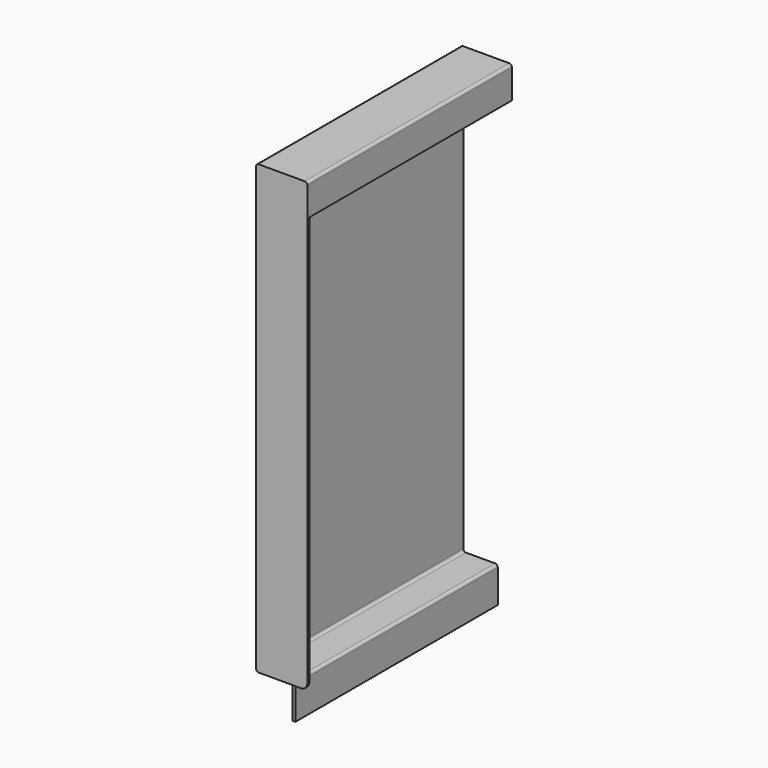
from build123d import *

# Parameters (mm, degrees)
F4_DEPTH = 2
F6_R     = 2


with BuildPart() as f2:
    # F2: sweep along a path in F1
    with BuildLine(Plane.XY) as f2_path:
        Line((0, 0), (0, 198))
    # F0 (on Front) → F2 (sweep)
    with BuildSketch(Plane.XZ):
        Polygon((40, 0), (0, 0), (0, -350), (27, -350), (27, -376), (29, -376), (29, -348), (2, -348), (2, -2), (38, -2), (38, -25), (40, -25), align=None)
    sweep(path=f2_path.line)


with BuildPart() as f4:
    # F3 (on face) → F4 (new body)
    with BuildSketch(Plane.XZ):
        with BuildLine():
            Line((40, -345), (40, 0))
            Line((40, 0), (0, 0))
            Line((0, 0), (0, -350))
            Line((0, -350), (35, -350))
            ThreePointArc((35, -350), (38.5355339059, -348.5355339059), (40, -345))
        make_face()
    extrude(amount=F4_DEPTH)


with BuildPart() as f2_1:
    add(f2.part)

    # F5: union F4
    add(f4.part)

    # F6
    f6_edges = [f2_1.edges().sort_by_distance(p)[0] for p in [
        (40, 98, 0),
        (0, 98, 0),
        (29, 99, -348),
        (2, 99, -348),
        (27, 99, -350),
        (0, 98, -350),
        (2, 99, -2),
        (38, 99, -2),
    ]]
    fillet(f6_edges, radius=F6_R)


solid = f2_1.part
